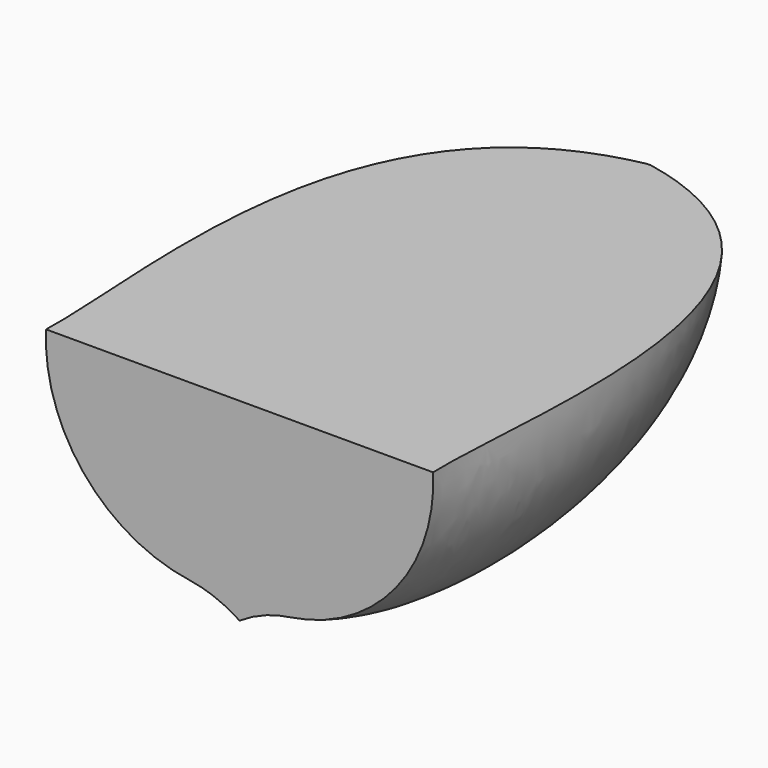
from build123d import *


with BuildPart() as loft_body:
    # Sketch → Loft section 0
    with BuildSketch(Plane.XZ):
        with BuildLine():
            Line((0, 0), (0, -28.355419))
            ThreePointArc((0, -28.355419), (-3.521602, -26.526728), (-7.35991, -25.520156))
            ThreePointArc((-28.355419, 0), (-22.785826, -16.814492), (-7.35991, -25.520156))
            Line((0, 0), (-28.355419, 0))
        make_face()
    # Sketch001 → Loft section 1
    with BuildSketch(Plane.XZ.offset(-45)):
        with BuildLine():
            Line((0, 0), (0, -27.719862))
            ThreePointArc((0, -27.719862), (-3.195561, -26.373855), (-6.566651, -25.562005))
            ThreePointArc((-27.719862, 0), (-21.985706, -16.788253), (-6.566651, -25.562005))
            Line((0, 0), (-27.719862, 0))
        make_face()
    # Sketch002 → Loft section 2
    with BuildSketch(Plane.XZ.offset(-72)):
        with BuildLine():
            Line((0, 0), (0, -9.342984))
            ThreePointArc((0, -9.342984), (-1.208857, -8.236593), (-2.669425, -7.493508))
            ThreePointArc((-9.342984, 0), (-6.978577, -4.612729), (-2.669425, -7.493508))
            Line((0, 0), (-9.342984, 0))
        make_face()
    # Sketch003 → Loft section 3
    with BuildSketch(Plane.XZ.offset(-75)):
        with BuildLine():
            Line((0, 0), (0, -0.243526))
            Line((-0.154774, -0.139243), (0, -0.243526))
            ThreePointArc((-0.243526, 0), (-0.213641, -0.078858), (-0.154774, -0.139243))
            Line((0, 0), (-0.243526, 0))
        make_face()
    loft()


with BuildPart() as part_mirroring:
    # Part__Mirroring: instance of Loft body
    add(loft_body.part.mirror(Plane(origin=(0, 0, 0), x_dir=(0, -1, 0), z_dir=(1, 0, 0))))


with BuildPart() as fusion:
    # Fusion base: copy of Loft body
    add(loft_body.part)

    # Fusion: union Part__Mirroring
    add(part_mirroring.part)


solid = fusion.part
